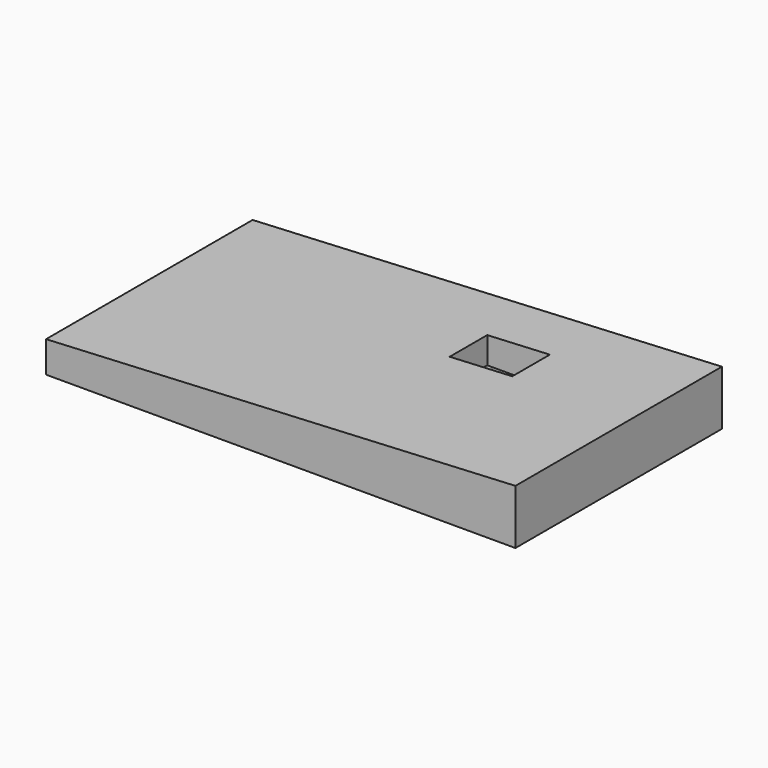
from build123d import *

# Parameters (mm, degrees)
F1_DEPTH = 165
F2_W     = 40
F2_H     = 30
F3_DEPTH = 35.001
F4_W     = 40
F4_H     = 30
F5_DEPTH = 12


with BuildPart() as f1:
    # F0 (on Front) → F1 (new body)
    with BuildSketch(Plane.XZ):
        Polygon((0, 51.518065), (0, 31.518065), (300, 31.518065), (300, 66.518065), align=None)
    extrude(amount=F1_DEPTH)

    # F2 (on face) → F3 (cut, through all)
    with BuildSketch(Plane(origin=(0, 0, 31.518065), x_dir=(1, 0, 0), z_dir=(0, 0, -1))):
        with Locations((200, 52.5)):
            Rectangle(F2_W, F2_H)
    extrude(amount=-F3_DEPTH, mode=Mode.SUBTRACT)

    # F4 (on face) → F5 (cut)
    with BuildSketch(Plane(origin=(0, 0, 31.518065), x_dir=(1, 0, 0), z_dir=(0, 0, -1))):
        with BuildLine():
            Line((170, 72.5), (170, 32.5))
            ThreePointArc((170, 32.5), (171.464466, 28.964466), (175, 27.5))
            Line((175, 27.5), (225, 27.5))
            ThreePointArc((225, 27.5), (228.535534, 28.964466), (230, 32.5))
            Line((230, 32.5), (230, 72.5))
            ThreePointArc((230, 72.5), (228.535534, 76.035534), (225, 77.5))
            Line((225, 77.5), (175, 77.5))
            ThreePointArc((175, 77.5), (171.464466, 76.035534), (170, 72.5))
        make_face()
        with Locations((200, 52.5)):
            Rectangle(F4_W, F4_H, mode=Mode.SUBTRACT)
    extrude(amount=-F5_DEPTH, mode=Mode.SUBTRACT)


solid = f1.part
